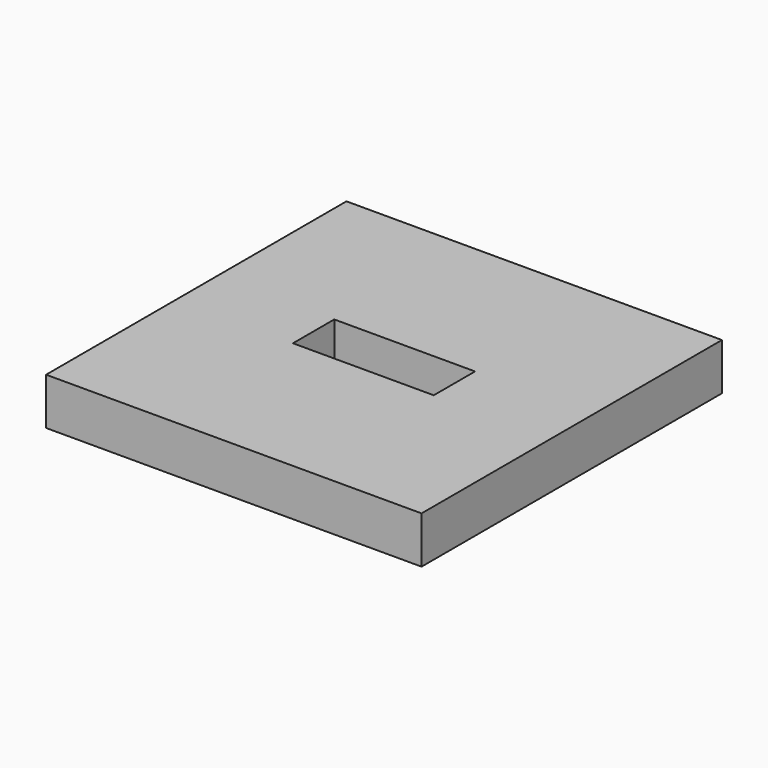
from build123d import *

# Parameters (mm, degrees)
SKETCH005_W      = 3
SKETCH005_H      = 1.1
EXTRUDE006_DEPTH = 1
BOX002_W         = 8
BOX002_H         = 8
BOX002_DEPTH     = 1


with BuildPart() as snapslotextrude:
    # Sketch005 (on Face6 of Box002) → Extrude006 (new body)
    with BuildSketch(Plane(origin=(30.86, 30.4267, 1), x_dir=(1, 0, 0), z_dir=(0, 0, 1))):
        with Locations((4, 4)):
            Rectangle(SKETCH005_W, SKETCH005_H)
    extrude(amount=-EXTRUDE006_DEPTH)


with BuildPart() as wedgeslot:
    # Box002 → Box002 (new body)
    with BuildSketch(Plane(origin=(30.86, 30.4267, 0), x_dir=(1, 0, 0), z_dir=(0, 0, 1))):
        with Locations((4, 4)):
            Rectangle(BOX002_W, BOX002_H)
    extrude(amount=BOX002_DEPTH)

    # Cut002: cut snapSlotExtrude
    add(snapslotextrude.part, mode=Mode.SUBTRACT)


with BuildPart() as wedgeslot_1:
    # Cut002 placement: moved
    add(wedgeslot.part.moved(Location((13, 0, 0))))


solid = wedgeslot_1.part
